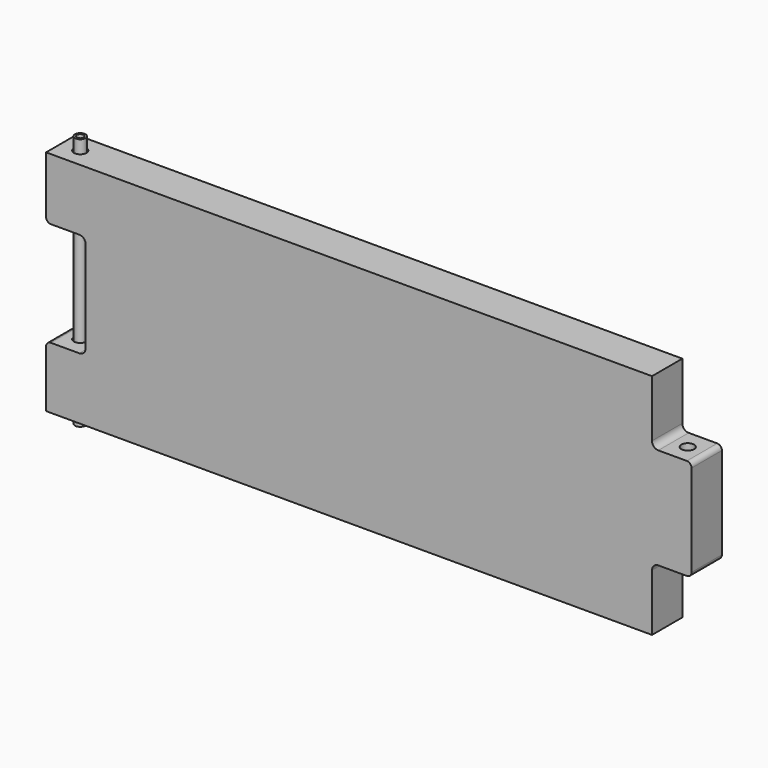
from build123d import *

# Parameters (mm, degrees)
F0_W     = 79.375
F0_H     = 123.825
F0_H_2   = 203.2
F1_DEPTH = 38.1
F2_R     = 12.7
F3_DEPTH = 254
F4_R     = 9.525
F5_R     = 12.7
F7_DEPTH = 25.4
F8_R     = 10.668
F8_R_2   = 6.985
F9_DEPTH = 254


with BuildPart() as f1:
    # F0 (on Front) → F1 (new body, symmetric)
    with BuildSketch(Plane.XZ):
        Polygon((568.325, 228.6), (-568.325, 228.6), (-568.325, 104.775), (-568.325, -104.775), (-568.325, -228.6), (568.325, -228.6), (568.325, -101.6), (568.325, 101.6), align=None)
        with Locations((-608.0125, 166.6875)):
            Rectangle(F0_W, F0_H)
        with Locations((608.0125, 0)):
            Rectangle(F0_W, F0_H_2)
        with Locations((-608.0125, -166.6875)):
            Rectangle(F0_W, F0_H)
    extrude(amount=F1_DEPTH, both=True)

    # F2 (on Top) → F3 (cut, symmetric)
    with BuildSketch(Plane.XY):
        with Locations((-609.6, 0)):
            Circle(F2_R)
        with Locations((609.6, 0)):
            Circle(F2_R)
    extrude(amount=F3_DEPTH, both=True, mode=Mode.SUBTRACT)

    # F4
    f4_edges = [f1.edges().sort_by_distance(p)[0] for p in [
        (647.7, 0, 101.6),
        (647.7, 0, -101.6),
        (-647.7, 0, 104.775),
        (-647.7, 0, -104.775),
    ]]
    fillet(f4_edges, radius=F4_R)

    # F5
    f5_edges = [f1.edges().sort_by_distance(p)[0] for p in [
        (-568.325, 0, 104.775),
        (-568.325, 0, -104.775),
        (568.325, 0, -101.6),
        (568.325, 0, 101.6),
    ]]
    fillet(f5_edges, radius=F5_R)

    # F6 (on Front) → F7 (cut, symmetric)
    with BuildSketch(Plane.XZ):
        with BuildLine():
            Line((-38.1, 203.2), (-517.525, 203.2))
            ThreePointArc((-517.525, 203.2), (-535.4855122421, 195.7605122421), (-542.925, 177.8))
            Line((-542.925, 177.8), (-542.925, 38.1))
            ThreePointArc((-542.925, 38.1), (-535.4855122421, 20.1394877579), (-517.525, 12.7))
            Line((-517.525, 12.7), (-38.1, 12.7))
            ThreePointArc((-38.1, 12.7), (-20.1394877579, 20.1394877579), (-12.7, 38.1))
            Line((-12.7, 38.1), (-12.7, 177.8))
            ThreePointArc((-12.7, 177.8), (-20.1394877579, 195.7605122421), (-38.1, 203.2))
        make_face()
        with BuildLine():
            ThreePointArc((38.1, 203.2), (20.1394877579, 195.7605122421), (12.7, 177.8))
            Line((12.7, 177.8), (12.7, 38.1))
            ThreePointArc((12.7, 38.1), (20.1394877579, 20.1394877579), (38.1, 12.7))
            Line((38.1, 12.7), (517.525, 12.7))
            ThreePointArc((517.525, 12.7), (535.4855122421, 20.1394877579), (542.925, 38.1))
            Line((542.925, 38.1), (542.925, 177.8))
            ThreePointArc((542.925, 177.8), (535.4855122421, 195.7605122421), (517.525, 203.2))
            Line((517.525, 203.2), (38.1, 203.2))
        make_face()
        with BuildLine():
            Line((517.525, -12.7), (38.1, -12.7))
            ThreePointArc((38.1, -12.7), (20.1394877579, -20.1394877579), (12.7, -38.1))
            Line((12.7, -38.1), (12.7, -177.8))
            ThreePointArc((12.7, -177.8), (20.1394877579, -195.7605122421), (38.1, -203.2))
            Line((38.1, -203.2), (517.525, -203.2))
            ThreePointArc((517.525, -203.2), (535.4855122421, -195.7605122421), (542.925, -177.8))
            Line((542.925, -177.8), (542.925, -38.1))
            ThreePointArc((542.925, -38.1), (535.4855122421, -20.1394877579), (517.525, -12.7))
        make_face()
        with BuildLine():
            ThreePointArc((-542.925, -177.8), (-535.4855122421, -195.7605122421), (-517.525, -203.2))
            Line((-517.525, -203.2), (-38.1, -203.2))
            ThreePointArc((-38.1, -203.2), (-20.1394877579, -195.7605122421), (-12.7, -177.8))
            Line((-12.7, -177.8), (-12.7, -38.1))
            ThreePointArc((-12.7, -38.1), (-20.1394877579, -20.1394877579), (-38.1, -12.7))
            Line((-38.1, -12.7), (-517.525, -12.7))
            ThreePointArc((-517.525, -12.7), (-535.4855122421, -20.1394877579), (-542.925, -38.1))
            Line((-542.925, -38.1), (-542.925, -177.8))
        make_face()
    extrude(amount=F7_DEPTH, both=True, mode=Mode.SUBTRACT)


with BuildPart() as f9:
    # F8 (on Top) → F9 (new body, symmetric)
    with BuildSketch(Plane.XY):
        with Locations((-609.6, 0)):
            Circle(F8_R)
        with Locations((-609.6, 0)):
            Circle(F8_R_2, mode=Mode.SUBTRACT)
    extrude(amount=F9_DEPTH, both=True)


solid = Compound([f1.part, f9.part])
